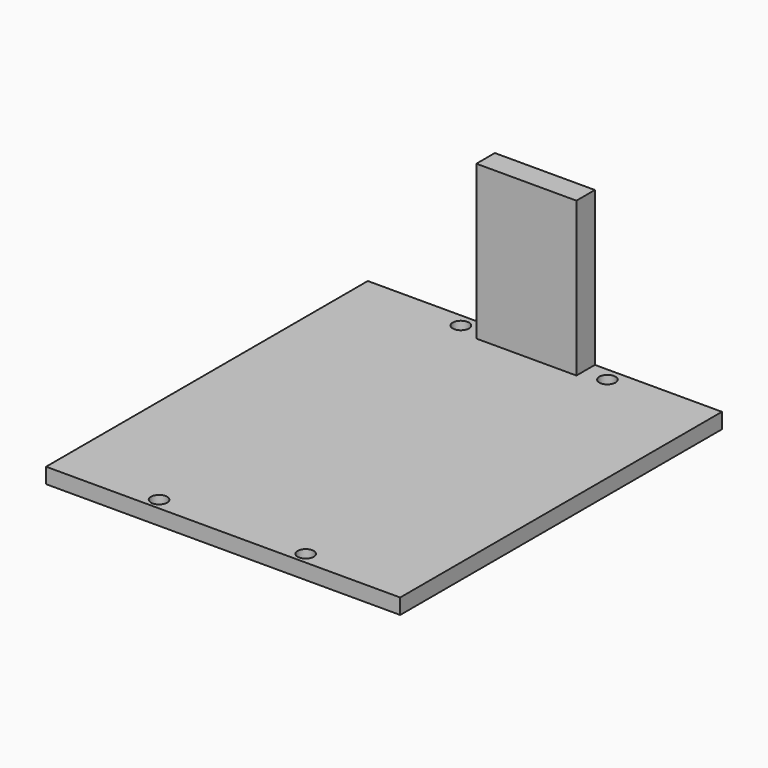
from build123d import *

# Parameters (mm, degrees)
F0_W     = 58.42
F0_H     = 66.3448
F0_R     = 1.3335
F1_DEPTH = 2.54
F2_W     = 16.51
F2_H     = 3.81
F3_DEPTH = 25.4


with BuildPart() as f1:
    # F0 (on Top) → F1 (new body)
    with BuildSketch(Plane.XY):
        with Locations((29.21, -33.1724)):
            Rectangle(F0_W, F0_H)
        with Locations((17.1196, -64.4398)):
            Circle(F0_R, mode=Mode.SUBTRACT)
        with Locations((41.3004, -64.4398)):
            Circle(F0_R, mode=Mode.SUBTRACT)
        with Locations((17.1196, -2.2098)):
            Circle(F0_R, mode=Mode.SUBTRACT)
        with Locations((41.3004, -2.2098)):
            Circle(F0_R, mode=Mode.SUBTRACT)
    extrude(amount=F1_DEPTH)

    # F2 (on face) → F3 (join)
    with BuildSketch(Plane.XY.offset(2.54)):
        with Locations((29.21, -1.905)):
            Rectangle(F2_W, F2_H)
    extrude(amount=F3_DEPTH)


solid = f1.part
